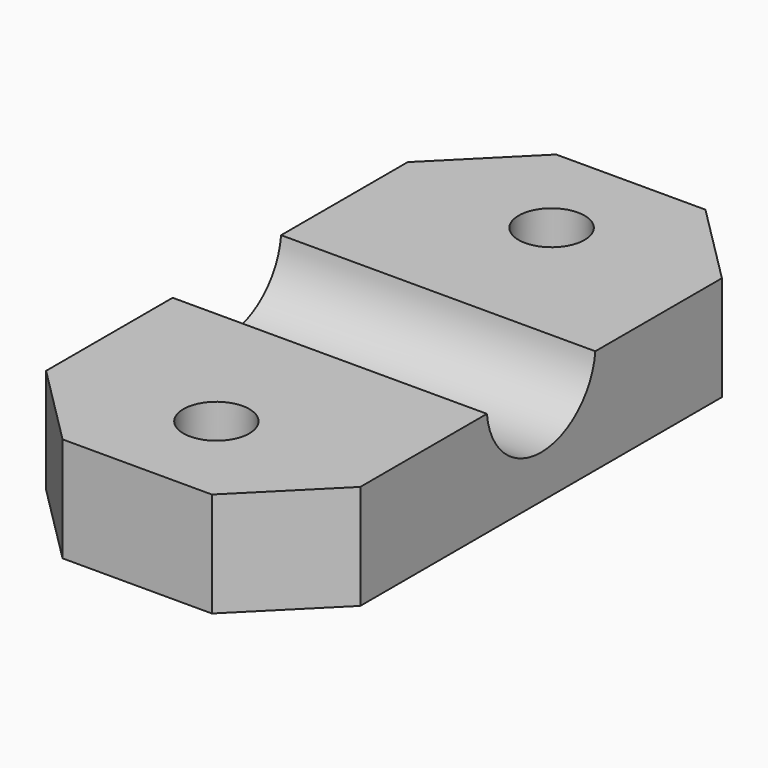
from build123d import *

# Parameters (mm, degrees)
F0_W     = 19.05
F0_H     = 37.4
F0_R     = 2
F1_DEPTH = 6.35
F2_R     = 4.1275
F3_DEPTH = 100
F4_SIZE  = 5


with BuildPart() as f1:
    # F0 (on Top) → F1 (new body)
    with BuildSketch(Plane.XY):
        Rectangle(F0_W, F0_H)
        with Locations((0, -12.7)):
            Circle(F0_R, mode=Mode.SUBTRACT)
        with Locations((0, 12.7)):
            Circle(F0_R, mode=Mode.SUBTRACT)
    extrude(amount=F1_DEPTH)

    # F2 (on face) → F3 (cut)
    with BuildSketch(Plane.YZ.offset(9.525)):
        with Locations((0, 6.75)):
            Circle(F2_R)
    extrude(amount=-F3_DEPTH, mode=Mode.SUBTRACT)

    # F4
    f4_edges = [f1.edges().sort_by_distance(p)[0] for p in [
        (9.525, -18.7, 3.175),
        (-9.525, -18.7, 3.175),
        (-9.525, 18.7, 3.175),
        (9.525, 18.7, 3.175),
    ]]
    chamfer(f4_edges, length=F4_SIZE)


solid = f1.part
